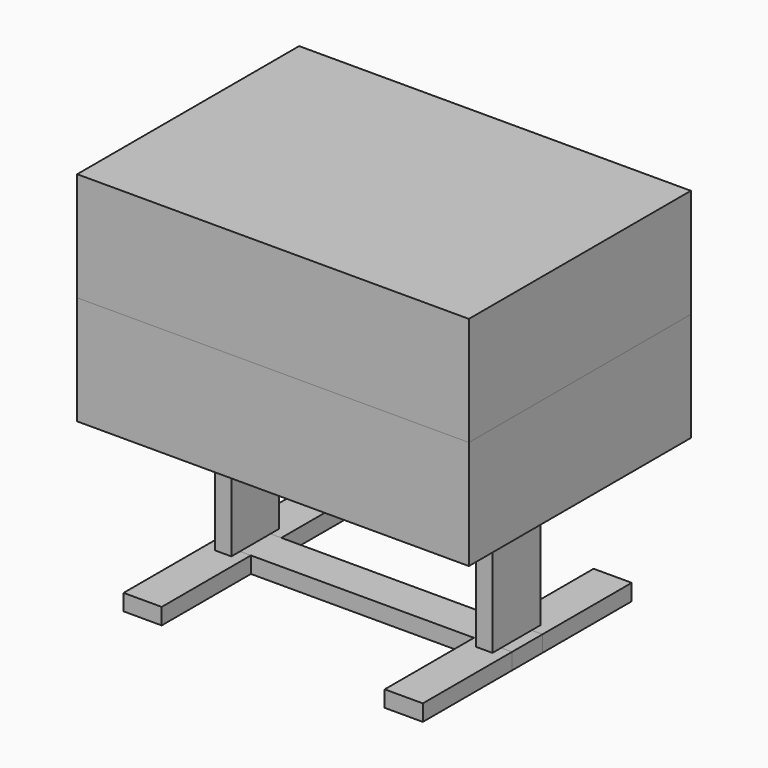
from build123d import *

# Parameters (mm, degrees)
F0_W      = 88.9
F0_H      = 609.6
F1_DEPTH  = 38.1
F3_W      = 698.5
F3_H      = 38.1
F4_DEPTH  = 88.9
F6_W      = 38.1
F6_H      = 139.7
F7_DEPTH  = 355.6
F9_W      = 914.4
F9_H      = 647.7
F10_DEPTH = 254


with BuildPart() as f1:
    # F0 (on Top) → F1 (new body)
    with BuildSketch(Plane.XY):
        with Locations((-40.833728, 0)):
            Rectangle(F0_W, F0_H)
    extrude(amount=F1_DEPTH)


with BuildPart() as f2_1:
    # F2: copy of F1
    add(f1.part.moved(Location((609.6, 0, 0))))


with BuildPart() as f4:
    # F3 (on face) → F4 (new body)
    with BuildSketch(Plane(origin=(0, 304.8, 0), x_dir=(-1, 0, 0), z_dir=(0, 1, 0))):
        with Locations((-263.966272, 19.05)):
            Rectangle(F3_W, F3_H)
    extrude(amount=F4_DEPTH)


with BuildPart() as f4_1:
    # F5: moved
    add(f4.part.moved(Location((0, -349.25, 0))))


with BuildPart() as f7:
    # F6 (on face) → F7 (new body)
    with BuildSketch(Plane.XY.offset(38.1)):
        with Locations((-40.833728, 0)):
            Rectangle(F6_W, F6_H)
    extrude(amount=F7_DEPTH)


with BuildPart() as f8_1:
    # F8: copy of F7
    add(f7.part.moved(Location((609.6, 0, 0))))


with BuildPart() as f10:
    # F9 (on Top) → F10 (new body)
    with BuildSketch(Plane.XY):
        with Locations((263.966272, 18.502313)):
            Rectangle(F9_W, F9_H)
    extrude(amount=F10_DEPTH)


with BuildPart() as f10_1:
    # F11: moved
    add(f10.part.moved(Location((0, 0, 609.6))))


with BuildPart() as f12_1:
    # F12: copy of F10
    add(f10_1.part.moved(Location((0, 0, -254))))


solid = Compound([f1.part, f2_1.part, f4_1.part, f7.part, f8_1.part, f10_1.part, f12_1.part])
